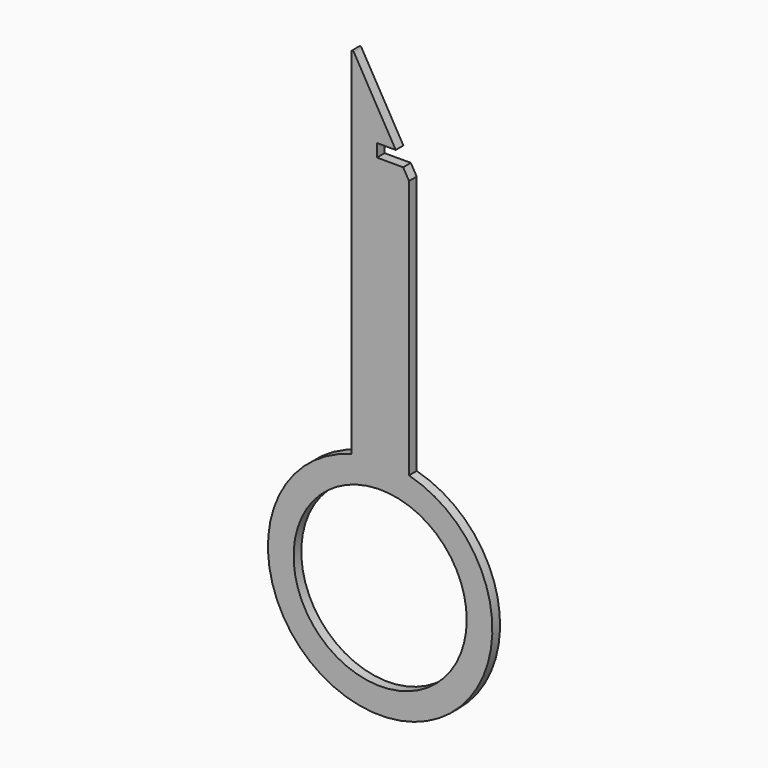
from build123d import *

# Parameters (mm, degrees)
F0_R     = 13.5
F1_DEPTH = 1.5


with BuildPart() as f1:
    # F0 (on Front) → F1 (new body)
    with BuildSketch(Plane.XZ):
        with BuildLine():
            Line((-2.071797, 3.588457), (-8.626795, 14.942047))
            ThreePointArc((-8.626795, 14.942047), (-8.851764, 15.035232), (-9, 14.842047))
            Line((-9, 14.842047), (-9, -40.411543))
            ThreePointArc((-9, -40.411543), (-4.5, -74.823077), (0, -40.411543))
            Line((0, -40.411543), (0, 0))
            Line((0, 0), (-0.917096, 1.588457))
            Line((-0.917096, 1.588457), (-5, 1.588457))
            Line((-5, 1.588457), (-5, 3.588457))
            Line((-5, 3.588457), (-2.071797, 3.588457))
        make_face()
        with Locations((-4.5, -57.323077)):
            Circle(F0_R, mode=Mode.SUBTRACT)
    extrude(amount=F1_DEPTH)


solid = f1.part
